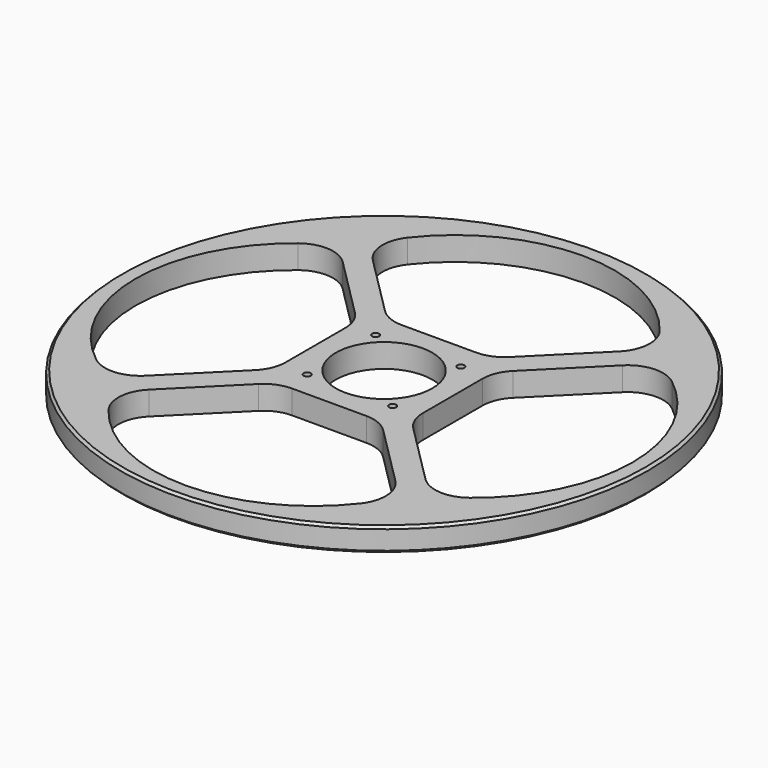
from build123d import *

# Parameters (mm, degrees)
F0_R     = 223
F0_R_2   = 3
F0_R_3   = 40.75
F1_DEPTH = 20
F2_SIZE  = 2


with BuildPart() as f1:
    # F0 (on Top) → F1 (new body)
    with BuildSketch(Plane.XY):
        Circle(F0_R)
        with BuildLine():
            ThreePointArc((106.569996, -157.872408), (0, -210), (-106.569996, -157.872408))
            ThreePointArc((-106.569996, -157.872408), (-112.829719, -137.590849), (-104.100978, -118.243114))
            Line((-104.100978, -118.243114), (-52.644661, -66.786797))
            ThreePointArc((-52.644661, -66.786797), (-42.91196, -60.283614), (-31.431458, -58))
            Line((-31.431458, -58), (31.431458, -58))
            ThreePointArc((31.431458, -58), (42.91196, -60.283614), (52.644661, -66.786797))
            Line((52.644661, -66.786797), (104.100978, -118.243114))
            ThreePointArc((104.100978, -118.243114), (112.829719, -137.590849), (106.569996, -157.872408))
        make_face(mode=Mode.SUBTRACT)
        with Locations((-36.062446, -36.062446)):
            Circle(F0_R_2, mode=Mode.SUBTRACT)
        with Locations((36.062446, -36.062446)):
            Circle(F0_R_2, mode=Mode.SUBTRACT)
        with BuildLine():
            ThreePointArc((157.872408, 106.569996), (210, 0), (157.872408, -106.569996))
            ThreePointArc((157.872408, -106.569996), (137.590849, -112.829719), (118.243114, -104.100978))
            Line((118.243114, -104.100978), (66.786797, -52.644661))
            ThreePointArc((66.786797, -52.644661), (60.283614, -42.91196), (58, -31.431458))
            Line((58, -31.431458), (58, 31.431458))
            ThreePointArc((58, 31.431458), (60.283614, 42.91196), (66.786797, 52.644661))
            Line((66.786797, 52.644661), (118.243114, 104.100978))
            ThreePointArc((118.243114, 104.100978), (137.590849, 112.829719), (157.872408, 106.569996))
        make_face(mode=Mode.SUBTRACT)
        with BuildLine():
            ThreePointArc((-157.872408, -106.569996), (-210, 0), (-157.872408, 106.569996))
            ThreePointArc((-157.872408, 106.569996), (-137.590849, 112.829719), (-118.243114, 104.100978))
            Line((-118.243114, 104.100978), (-66.786797, 52.644661))
            ThreePointArc((-66.786797, 52.644661), (-60.283614, 42.91196), (-58, 31.431458))
            Line((-58, 31.431458), (-58, -31.431458))
            ThreePointArc((-58, -31.431458), (-60.283614, -42.91196), (-66.786797, -52.644661))
            Line((-66.786797, -52.644661), (-118.243114, -104.100978))
            ThreePointArc((-118.243114, -104.100978), (-137.590849, -112.829719), (-157.872408, -106.569996))
        make_face(mode=Mode.SUBTRACT)
        with Locations((-36.062446, 36.062446)):
            Circle(F0_R_2, mode=Mode.SUBTRACT)
        Circle(F0_R_3, mode=Mode.SUBTRACT)
        with Locations((36.062446, 36.062446)):
            Circle(F0_R_2, mode=Mode.SUBTRACT)
        with BuildLine():
            Line((31.431458, 58), (-31.431458, 58))
            ThreePointArc((-31.431458, 58), (-42.91196, 60.283614), (-52.644661, 66.786797))
            Line((-52.644661, 66.786797), (-104.100978, 118.243114))
            ThreePointArc((-104.100978, 118.243114), (-112.829719, 137.590849), (-106.569996, 157.872408))
            ThreePointArc((-106.569996, 157.872408), (0, 210), (106.569996, 157.872408))
            ThreePointArc((106.569996, 157.872408), (112.829719, 137.590849), (104.100978, 118.243114))
            Line((104.100978, 118.243114), (52.644661, 66.786797))
            ThreePointArc((52.644661, 66.786797), (42.91196, 60.283614), (31.431458, 58))
        make_face(mode=Mode.SUBTRACT)
    extrude(amount=F1_DEPTH)

    # F2
    f2_edges = [f1.edges().sort_by_distance(p)[0] for p in [
        (-223, 0, 0),
        (-223, 0, 20),
    ]]
    chamfer(f2_edges, length=F2_SIZE)


solid = f1.part
